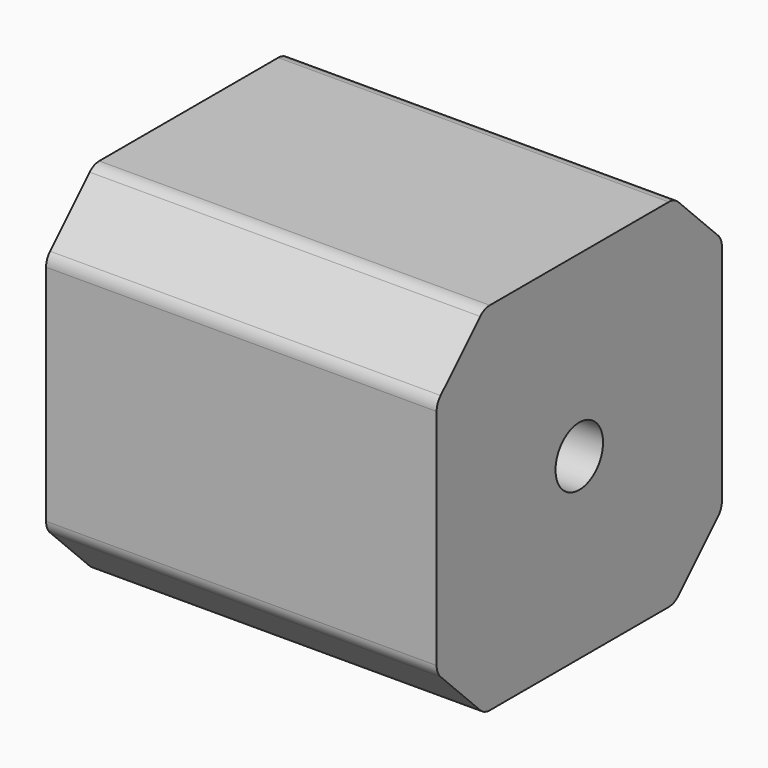
from build123d import *

# Parameters (mm, degrees)
PAD_DEPTH       = 46
SKETCH003_R     = 3.5
POCKET001_DEPTH = 46.001
FILLET003_R     = 2


with BuildPart() as part:
    # Sketch002 → Pad (new body)
    with BuildSketch(Plane.YZ):
        Polygon((-21, 14), (-14, 21), (14, 21), (21, 14), (21, -14), (14, -21), (-14, -21), (-21, -14), align=None)
    extrude(amount=PAD_DEPTH)

    # Sketch003 (on Face9 of Pad) → Pocket001 (cut, through all)
    with BuildSketch(Plane(origin=(0, 0, 0), x_dir=(0, 1, 0), z_dir=(-1, 0, 0))):
        Circle(SKETCH003_R)
    extrude(amount=-POCKET001_DEPTH, mode=Mode.SUBTRACT)

    # Fillet003
    fillet003_edges = [part.edges().sort_by_distance(p)[0] for p in [
        (23, -21, -14),
        (23, -21, 14),
        (23, -14, 21),
        (23, 14, 21),
        (23, -14, -21),
        (23, 14, -21),
        (23, 21, -14),
        (23, 21, 14),
    ]]
    fillet(fillet003_edges, radius=FILLET003_R)


solid = part.part
